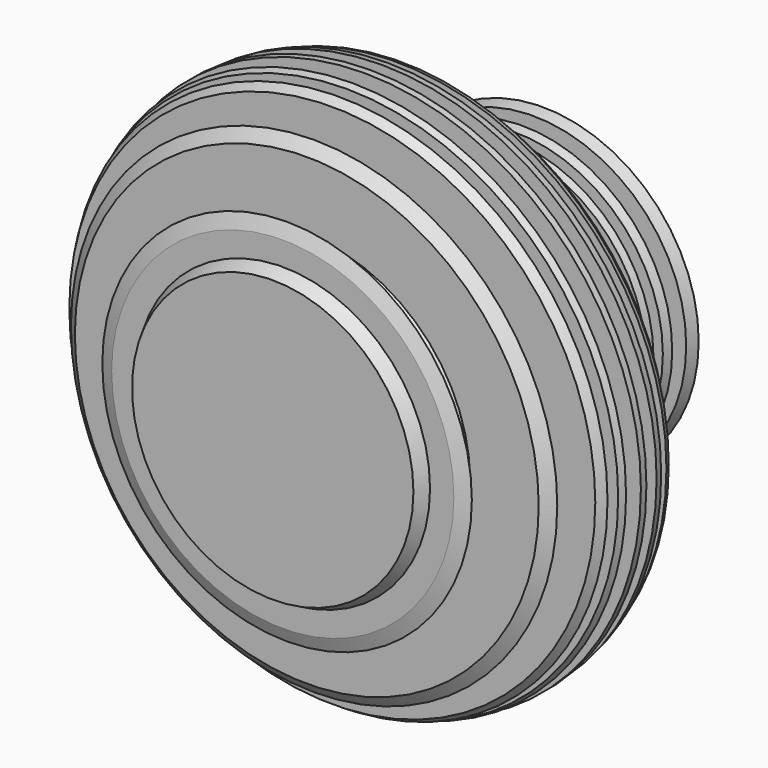
from build123d import *


with BuildPart() as f2:
    # F0 (on Top) → F2 (revolve)
    with BuildSketch(Plane.XY):
        Polygon((19.49287, 0), (20.401696, 1.742762), (23.705291, 1.742762), (25.598362, 2.485143), (20.847125, 2.485143), (22.628838, 5.900095), (32.131314, 5.900095), (33.690315, 7.162142), (23.222743, 7.162142), (24.559028, 10.317261), (36.437124, 10.317261), (37.179504, 11.50507), (25.001479, 11.50507), (25.419937, 12.806245), (37.615031, 12.806245), (37.943818, 13.762723), (25.599279, 13.762723), (25.957957, 15.25722), (25.957957, 15.914798), (38.272608, 15.914798), (38.272608, 16.871275), (26.077516, 16.871275), (26.077516, 18.86609), (38.089752, 18.86609), (37.901918, 19.898646), (25.983186, 19.898646), (25.742499, 21.441443), (37.391759, 21.441443), (37.082178, 22.230875), (25.453674, 22.230875), (24.765017, 23.986951), (35.65881, 23.776108), (34.744199, 24.570378), (24.322445, 24.835132), (23.705291, 25.894463), (33.284654, 25.709061), (32.160349, 26.394593), (23.231866, 26.567398), (22.438888, 27.546959), (30.225785, 27.396249), (28.929776, 28.017683), (22.047411, 28.150887), (21.235704, 28.922867), (27.353505, 28.673161), (25.543135, 29.453492), (20.56286, 29.549882), (19.530335, 30.45997), (23.705291, 30.289564), (22.745302, 30.803315), (19.030804, 30.875207), (17.782392, 31.583648), (21.621624, 31.583648), (20.847125, 32.254733), (16.532759, 32.338235), (15.503824, 33.269163), (20.107782, 33.269163), (19.719002, 34.260551), (14.920684, 34.260551), (14.417998, 35.251565), (19.545402, 35.251565), (19.545402, 36.005594), (14.173682, 36.005594), (13.908926, 37.398864), (19.49287, 37.398864), (19.757625, 38.506024), (13.884857, 38.506024), (13.908926, 39.749626), (19.912066, 39.749626), (20.107782, 40.81), (14.0809, 40.81), (14.307109, 42.041585), (20.414753, 42.041585), (20.728931, 43.273166), (14.64579, 43.273166), (15.247508, 45.147993), (21.168413, 45.147993), (21.596163, 46.773442), (15.503824, 46.773442), (10.511392, 46.977215), (10.511392, 1.742762), (0, 1.946203), (0, 0), align=None)
    revolve(axis=Axis((0, 27.407939, 0), (0, 1, 0)))


solid = f2.part
